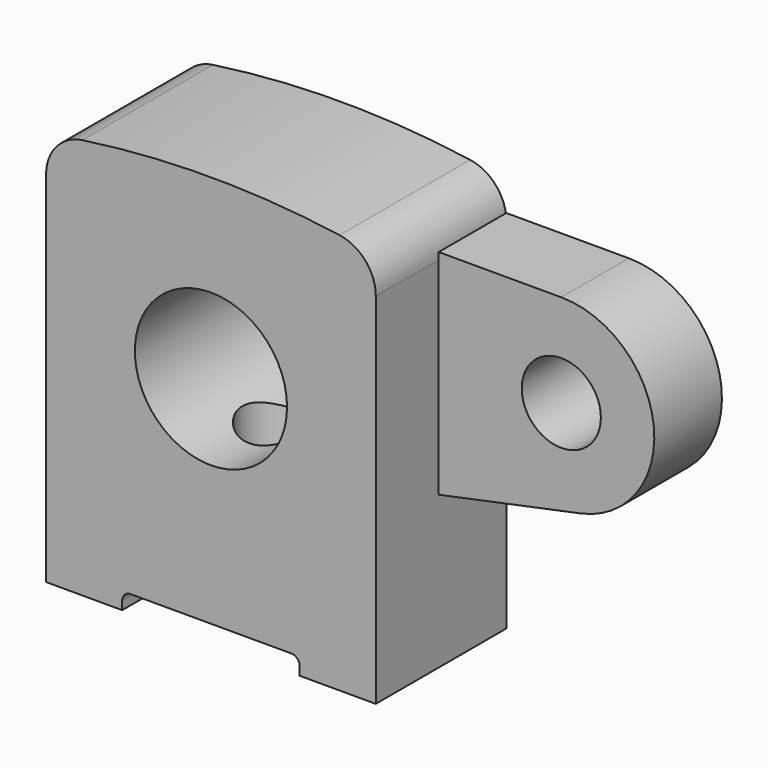
from build123d import *

# Parameters (mm, degrees)
F0_R     = 9
F1_DEPTH = 19.3
F2_R     = 1
F3_R     = 4.68
F4_DEPTH = 10
F5_R     = 4
F6_DEPTH = 25


with BuildPart() as f1:
    # F0 (on Front) → F1 (new body)
    with BuildSketch(Plane.XZ):
        with BuildLine():
            ThreePointArc((-15.21127, 25.205598), (-18.278647, 23.530867), (-19.5, 20.256447))
            Line((-19.5, 20.256447), (-19.5, -22.20694))
            Line((-19.5, -22.20694), (-10.5, -22.20694))
            Line((-10.5, -22.20694), (-10.5, -20.20694))
            Line((-10.5, -20.20694), (10.5, -20.20694))
            Line((10.5, -20.20694), (10.5, -22.20694))
            Line((10.5, -22.20694), (19.5, -22.20694))
            Line((19.5, -22.20694), (19.5, 20.256447))
            ThreePointArc((19.5, 20.256447), (18.278647, 23.530867), (15.21127, 25.205598))
            ThreePointArc((15.21127, 25.205598), (0, 26.29306), (-15.21127, 25.205598))
        make_face()
        with Locations((0, 5.29306)):
            Circle(F0_R, mode=Mode.SUBTRACT)
    extrude(amount=F1_DEPTH)

    # F2
    f2_edges = [f1.edges().sort_by_distance(p)[0] for p in [
        (-10.5, -9.65, -20.20694),
        (10.5, -9.65, -20.20694),
    ]]
    fillet(f2_edges, radius=F2_R)

    # F3 (on Front) → F4 (join)
    with BuildSketch(Plane.XZ):
        with BuildLine():
            Line((34, 21.061159), (19.5, 21.061159))
            Line((19.5, 21.061159), (19.5, -4.20694))
            Line((19.5, -4.20694), (36.250328, -0.7062))
            ThreePointArc((36.250328, -0.7062), (44.941685, 11.192319), (34, 21.061159))
        make_face()
        with Locations((34, 10.061159)):
            Circle(F3_R, mode=Mode.SUBTRACT)
    extrude(amount=F4_DEPTH)

    # F5 (on face) → F6 (cut)
    with BuildSketch(Plane(origin=(0, 0, -20.20694), x_dir=(1, 0, 0), z_dir=(0, 0, -1))):
        with Locations((0, 9.65)):
            Circle(F5_R)
    extrude(amount=-F6_DEPTH, mode=Mode.SUBTRACT)


solid = f1.part
